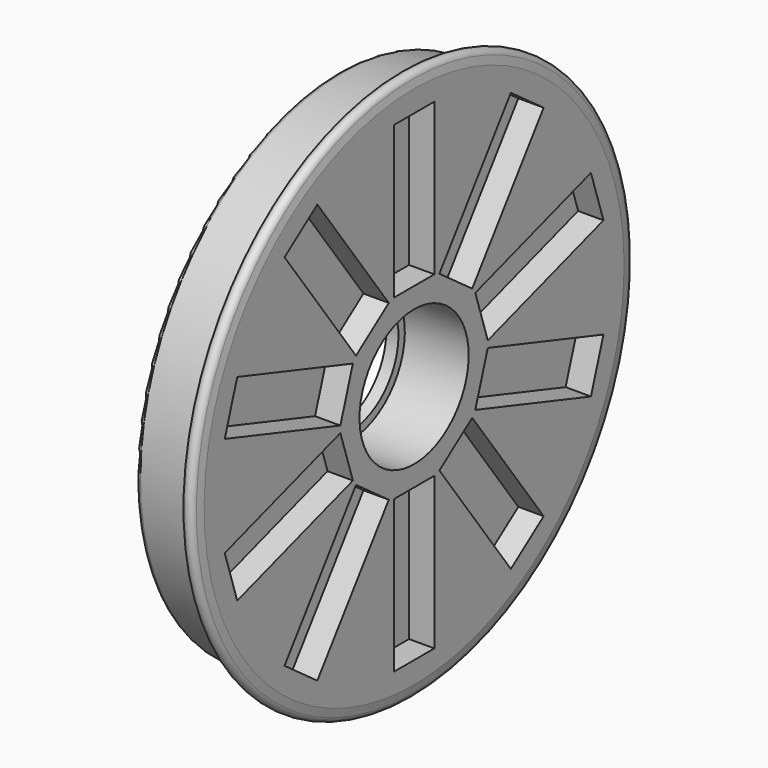
from build123d import *

# Parameters (mm, degrees)
F2_W     = 12.7
F2_H     = 38.1
F3_DEPTH = 6.35


with BuildPart() as f1:
    # F0 (on Front) → F1 (revolve)
    with BuildSketch(Plane.XZ):
        with BuildLine():
            Line((2.9484, 17.1), (18.9484, 17.1))
            Line((18.9484, 17.1), (18.9484, 65.788664))
            Line((18.9484, 65.788664), (18.597564, 67.778355))
            ThreePointArc((18.597564, 67.778355), (17.099734, 69.035183), (15.601905, 67.778355))
            Line((15.601905, 67.778355), (14.986, 64.285383))
            Line((14.986, 64.285383), (1.203533, 63.563075))
            ThreePointArc((1.203533, 63.563075), (0.348775, 63.169025), (0, 62.294815))
            Line((0, 62.294815), (0, 57.15))
            Line((0, 57.15), (3.175, 57.15))
            Line((3.175, 57.15), (3.175, 22.18))
            Line((3.175, 22.18), (-0.1016, 22.18))
            Line((-0.1016, 22.18), (-0.1016, 17.1))
            Line((-0.1016, 17.1), (-0.1016, 15.1))
            Line((-0.1016, 15.1), (2.9484, 15.1))
            Line((2.9484, 15.1), (2.9484, 17.1))
        make_face()
    revolve(axis=Axis((1.729923, 0, 0), (1, 0, 0)))

    # F2 (on face) → F3 (cut)
    with BuildSketch(Plane.YZ.offset(18.9484)):
        with Locations((0, 41.275)):
            Rectangle(F2_W, F2_H)
        Polygon((-40.595403, 45.071514), (-18.200785, 14.247966), (-7.926269, 21.712839), (-30.320887, 52.536387), align=None)
        Polygon((-59.334742, 12.602241), (-23.099489, 0.828694), (-19.174973, 12.907112), (-55.410226, 24.680659), align=None)
        Polygon((-55.410226, -24.680659), (-19.174973, -12.907112), (-23.099489, -0.828694), (-59.334742, -12.602241), align=None)
        Polygon((-30.320887, -52.536387), (-7.926269, -21.712839), (-18.200785, -14.247966), (-40.595403, -45.071514), align=None)
        with Locations((0, -41.275)):
            Rectangle(F2_W, F2_H)
        Polygon((40.595403, -45.071514), (18.200785, -14.247966), (7.926269, -21.712839), (30.320887, -52.536387), align=None)
        Polygon((59.334742, -12.602241), (23.099489, -0.828694), (19.174973, -12.907112), (55.410226, -24.680659), align=None)
        Polygon((55.410226, 24.680659), (19.174973, 12.907112), (23.099489, 0.828694), (59.334742, 12.602241), align=None)
        Polygon((30.320887, 52.536387), (7.926269, 21.712839), (18.200785, 14.247966), (40.595403, 45.071514), align=None)
    extrude(amount=-F3_DEPTH, mode=Mode.SUBTRACT)


solid = f1.part
